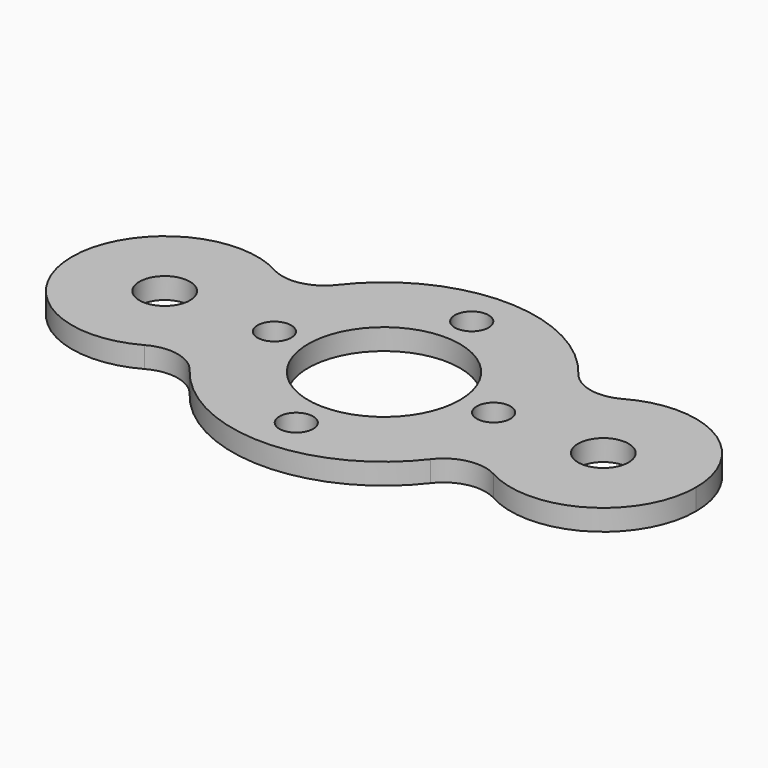
from build123d import *

# Parameters (mm, degrees)
F0_R     = 3
F0_R_2   = 2
F0_R_3   = 9
F1_DEPTH = 2.5
F2_R     = 5


with BuildPart() as f1:
    # F0 (on Top) → F1 (new body)
    with BuildSketch(Plane.XY):
        with BuildLine():
            ThreePointArc((16.9038461538, -6.1854656419), (17.7238431325, -3.140920982), (18, 0))
            ThreePointArc((18, 0), (17.7238431325, 3.140920982), (16.9038461538, 6.1854656419))
            ThreePointArc((16.9038461538, 6.1854656419), (15.4867299971, 3.2359162298), (15, 0))
            ThreePointArc((15, 0), (15.4867299971, -3.2359162298), (16.9038461538, -6.1854656419))
        make_face()
        with BuildLine():
            ThreePointArc((16.9038461538, 6.1854656419), (17.7238431325, 3.140920982), (18, 0))
            ThreePointArc((18, 0), (17.7238431325, -3.140920982), (16.9038461538, -6.1854656419))
            ThreePointArc((16.9038461538, -6.1854656419), (29.2359162298, -10.5132700029), (37, 0))
            ThreePointArc((37, 0), (29.2359162298, 10.5132700029), (16.9038461538, 6.1854656419))
        make_face()
        with Locations((26, 0)):
            Circle(F0_R, mode=Mode.SUBTRACT)
        with BuildLine():
            ThreePointArc((15, 0), (15.4867299971, 3.2359162298), (16.9038461538, 6.1854656419))
            ThreePointArc((16.9038461538, 6.1854656419), (0, 18), (-16.9038461538, 6.1854656419))
            ThreePointArc((-16.9038461538, 6.1854656419), (-15.4867299971, 3.2359162298), (-15, 0))
            ThreePointArc((-15, 0), (-15.4867299971, -3.2359162298), (-16.9038461538, -6.1854656419))
            ThreePointArc((-16.9038461538, -6.1854656419), (0, -18), (16.9038461538, -6.1854656419))
            ThreePointArc((16.9038461538, -6.1854656419), (15.4867299971, -3.2359162298), (15, 0))
        make_face()
        with Locations((0, -13)):
            Circle(F0_R_2, mode=Mode.SUBTRACT)
        with BuildLine():
            ThreePointArc((-11, 0), (-13, -2), (-15, 0))
            ThreePointArc((-15, 0), (-13, 2), (-11, 0))
        make_face(mode=Mode.SUBTRACT)
        Circle(F0_R_3, mode=Mode.SUBTRACT)
        with Locations((13, 0)):
            Circle(F0_R_2, mode=Mode.SUBTRACT)
        with Locations((0, 13)):
            Circle(F0_R_2, mode=Mode.SUBTRACT)
        with BuildLine():
            ThreePointArc((-15, 0), (-15.4867299971, 3.2359162298), (-16.9038461538, 6.1854656419))
            ThreePointArc((-16.9038461538, 6.1854656419), (-18, 0), (-16.9038461538, -6.1854656419))
            ThreePointArc((-16.9038461538, -6.1854656419), (-15.4867299971, -3.2359162298), (-15, 0))
        make_face()
        with BuildLine():
            ThreePointArc((-16.9038461538, -6.1854656419), (-18, 0), (-16.9038461538, 6.1854656419))
            ThreePointArc((-16.9038461538, 6.1854656419), (-37, 0), (-16.9038461538, -6.1854656419))
        make_face()
        with Locations((-26, 0)):
            Circle(F0_R, mode=Mode.SUBTRACT)
    extrude(amount=F1_DEPTH)

    # F2
    f2_edges = [f1.edges().sort_by_distance(p)[0] for p in [
        (16.903846, 6.185466, 1.25),
        (-16.903846, 6.185466, 1.25),
        (16.903846, -6.185466, 1.25),
        (-16.903846, -6.185466, 1.25),
    ]]
    fillet(f2_edges, radius=F2_R)


solid = f1.part
